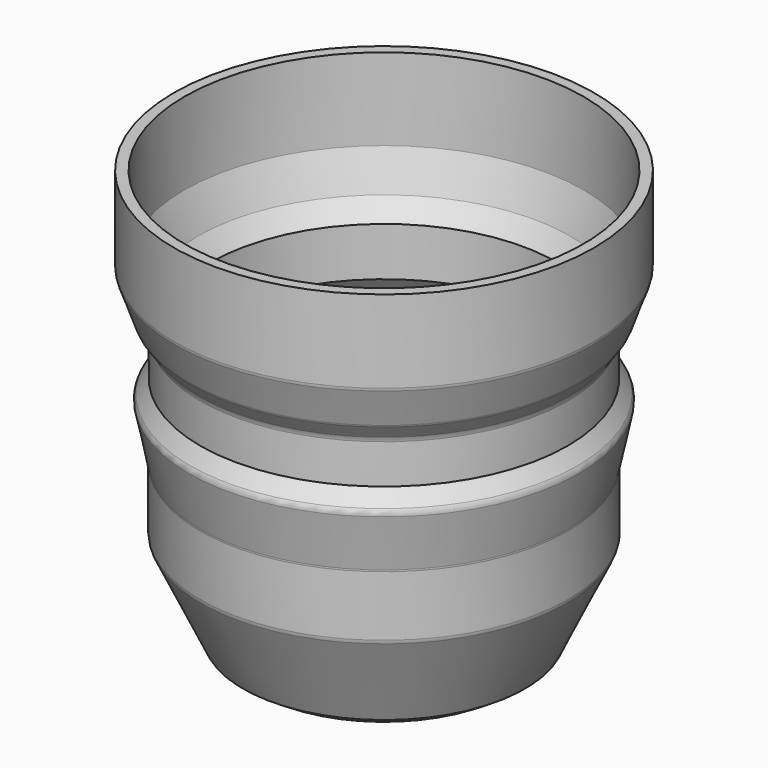
from build123d import *

# Parameters (mm, degrees)
F2_T     = -2.5
F3_SIZE  = 2.5
F4_R     = 5
F5_DEPTH = 10
F6_R     = 2
F7_R     = 2


with BuildPart() as f1:
    # F0 (on Front) → F1 (revolve)
    with BuildSketch(Plane.XZ):
        Polygon((-50, 100), (-50, 80), (-46.6322180986, 70.5841598853), (-43.7643359169, 66.4883996639), (-43.7643359169, 56.4883996639), (-46.6322180986, 52.3926394425), (-43.8305661082, 38.8607935607), (-43.8305661082, 23.8607935607), (-32.5, 0), (0, 0), (0, 100), align=None)
    revolve(axis=Axis((0, 0, 50), (0, 0, -1)))

    # F2
    f2_openings = [f1.faces().sort_by_distance(p)[0] for p in [
        (0, 0, 100),
    ]]
    offset(amount=F2_T, openings=f2_openings, kind=Kind.INTERSECTION)

    # F3
    f3_edges = [f1.edges().sort_by_distance(p)[0] for p in [
        (32.5, 0, 0),
    ]]
    chamfer(f3_edges, length=F3_SIZE)

    # F4 (on face) → F5 (cut)
    with BuildSketch(Plane(origin=(0, 0, 0), x_dir=(1, 0, 0), z_dir=(0, 0, -1))):
        with Locations((-20, 0)):
            Circle(F4_R)
        with Locations((0, 20)):
            Circle(F4_R)
        with Locations((20, 0)):
            Circle(F4_R)
        with Locations((0, -20)):
            Circle(F4_R)
    extrude(amount=-F5_DEPTH, mode=Mode.SUBTRACT)

    # F6
    f6_edges = [f1.edges().sort_by_distance(p)[0] for p in [
        (46.632218, 0, 52.392639),
    ]]
    fillet(f6_edges, radius=F6_R)

    # F7
    f7_edges = [f1.edges().sort_by_distance(p)[0] for p in [
        (43.830566, 0, 23.860794),
        (50, 0, 80),
        (43.830566, 0, 38.860794),
        (43.764336, 0, 66.4884),
        (46.632218, 0, 70.58416),
    ]]
    fillet(f7_edges, radius=F7_R)


solid = f1.part
